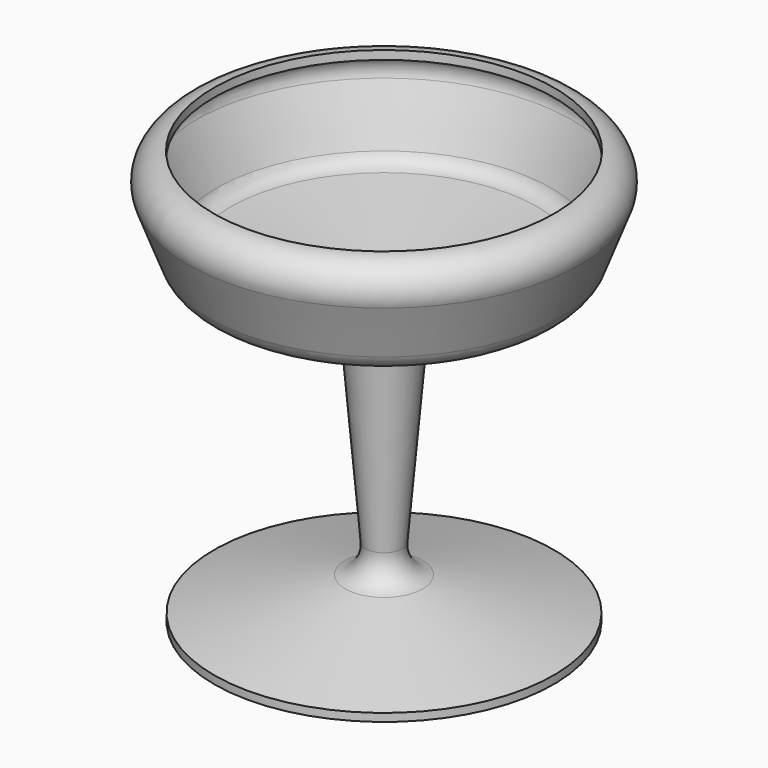
from build123d import *


with BuildPart() as f1:
    # F0 (on Right) → F1 (revolve)
    with BuildSketch(Plane.YZ):
        with BuildLine():
            Line((-39.725896, -50.238837), (0, -50.238837))
            Line((0, -50.238837), (0, 17.777939))
            Line((0, 17.777939), (-35.777295, 23.562292))
            ThreePointArc((-35.777295, 23.562292), (-37.818332, 24.479631), (-39.126143, 26.295387))
            Line((-39.126143, 26.295387), (-43.871814, 38.823957))
            ThreePointArc((-43.871814, 38.823957), (-43.386944, 42.807132), (-39.833795, 44.67151))
            Line((-39.833795, 44.67151), (-39.833795, 46.70351))
            ThreePointArc((-39.833795, 46.70351), (-45.059014, 43.961777), (-45.772057, 38.104168))
            Line((-45.772057, 38.104168), (-41.026387, 25.575598))
            ThreePointArc((-41.026387, 25.575598), (-39.103135, 22.905368), (-36.101611, 21.55634))
            Line((-36.101611, 21.55634), (-13.542031, 17.908983))
            ThreePointArc((-13.542031, 17.908983), (-9.900873, 15.959734), (-8.228767, 12.183272))
            Line((-8.228767, 12.183272), (-4.275313, -33.889659))
            ThreePointArc((-4.275313, -33.889659), (-5.427606, -38.11324), (-9.039463, -40.587285))
            Line((-9.039463, -40.587285), (-39.725896, -48.37814))
            Line((-39.725896, -48.37814), (-39.725896, -50.238837))
        make_face()
    revolve(axis=Axis((0, 0, -1.767663), (0, 0, -1)))


solid = f1.part
